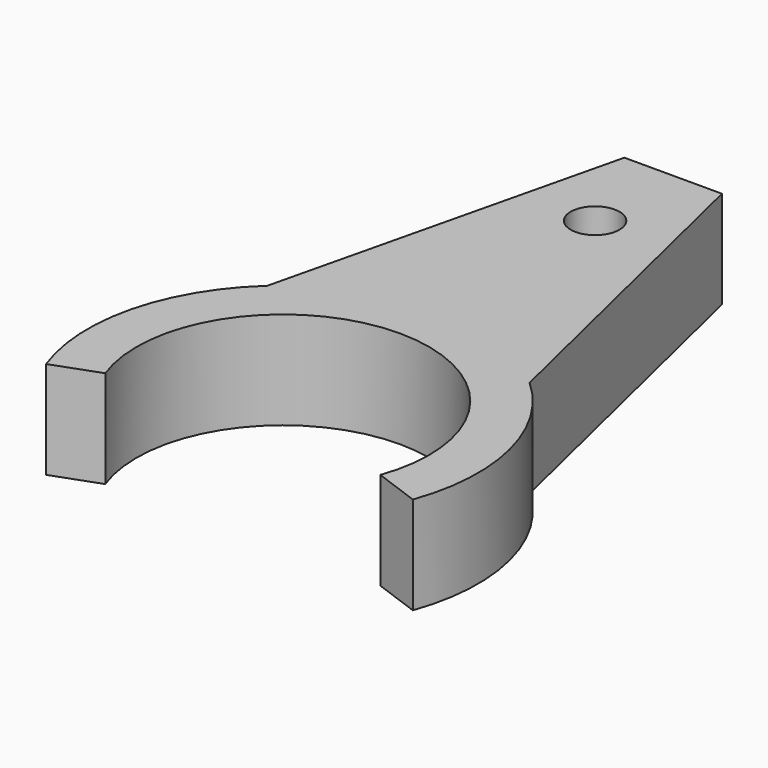
from build123d import *

# Parameters (mm, degrees)
F0_R     = 10
F1_DEPTH = 5
F3_DEPTH = 5
F4_R     = 7.5
F5_DEPTH = 5
F7_DEPTH = 5
F8_R     = 1.25
F9_DEPTH = 5


with BuildPart() as f1:
    # F0 (on Top) → F1 (new body)
    with BuildSketch(Plane.XY):
        Circle(F0_R)
    extrude(amount=F1_DEPTH)

    # F2 (on Top) → F3 (join)
    with BuildSketch(Plane.XY):
        Polygon((-2.5, 25), (-8.5, 0), (8.5, 0), (2.5, 25), align=None)
    extrude(amount=F3_DEPTH)

    # F4 (on Top) → F5 (cut)
    with BuildSketch(Plane.XY):
        Circle(F4_R)
    extrude(amount=F5_DEPTH, mode=Mode.SUBTRACT)

    # F6 (on Top) → F7 (cut)
    with BuildSketch(Plane.XY):
        Polygon((19.809051, -7.209905), (0, 0), (-19.809051, -7.209905), (0, -14.41981), align=None)
    extrude(amount=F7_DEPTH, mode=Mode.SUBTRACT)

    # F8 (on Top) → F9 (cut)
    with BuildSketch(Plane.XY):
        with Locations((0, 20)):
            Circle(F8_R)
    extrude(amount=F9_DEPTH, mode=Mode.SUBTRACT)


solid = f1.part
